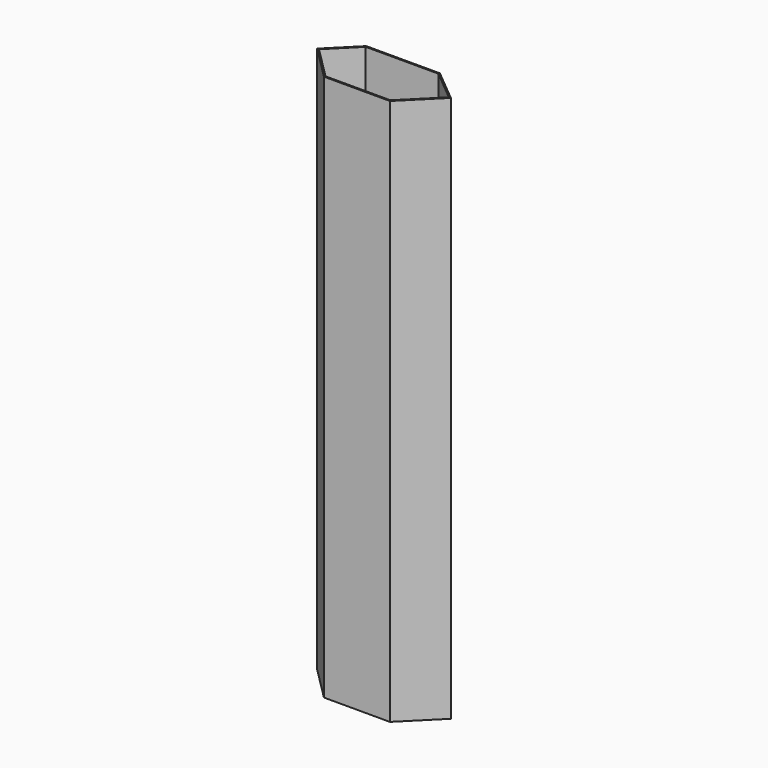
from build123d import *

# Parameters (mm, degrees)
F1_DEPTH = 210


with BuildPart() as f1:
    # F0 (on Top) → F1 (new body)
    with BuildSketch(Plane.XY):
        Polygon((-54.881843, 7.859512), (-42.890312, -2.118638), (-55.363, -14.591326), (-55.861931, -15.091326), (-55.155894, -15.091326), (-42.149323, -2.084756), (-54.701024, 8.359512), (-83.010021, 8.359512), (-93.488171, -2.118638), (-80.515483, -15.091326), (-79.807307, -15.091326), (-80.308376, -14.591326), (-92.781064, -2.118638), (-82.802914, 7.859512), align=None)
        Polygon((-55.861931, -15.091326), (-55.363, -14.591326), (-80.308376, -14.591326), (-79.807307, -15.091326), align=None)
    extrude(amount=F1_DEPTH)


solid = f1.part
